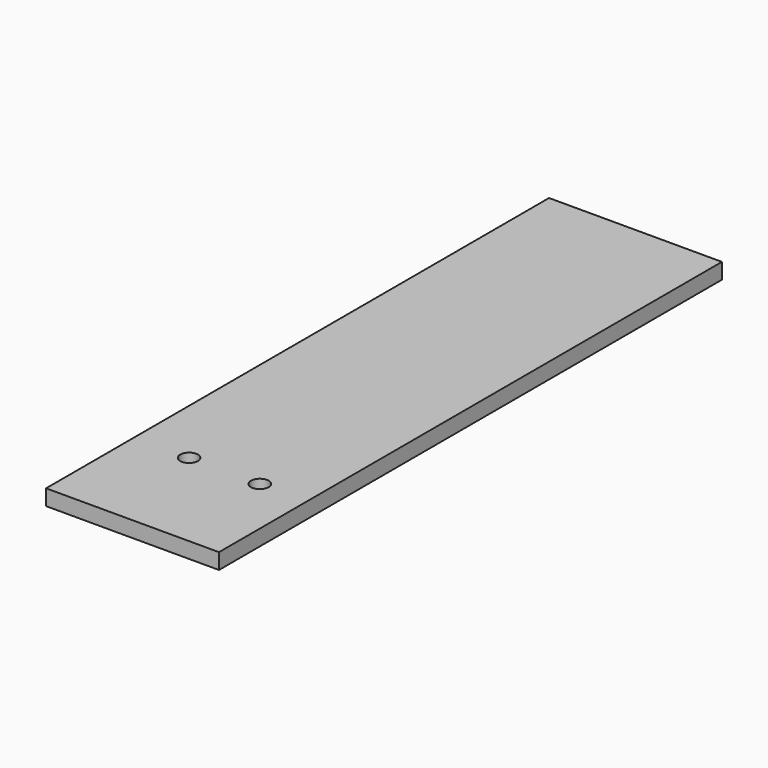
from build123d import *

# Parameters (mm, degrees)
F0_W     = 34.925
F0_H     = 127
F0_R     = 1.785938
F1_DEPTH = 1.5875


with BuildPart() as f1:
    # F0 (on Top) → F1 (new body, symmetric)
    with BuildSketch(Plane.XY):
        with Locations((-17.4625, 0)):
            Rectangle(F0_W, F0_H)
        with Locations((-23.8125, -41.275)):
            Circle(F0_R, mode=Mode.SUBTRACT)
        with Locations((-9.525, -41.275)):
            Circle(F0_R, mode=Mode.SUBTRACT)
    extrude(amount=F1_DEPTH, both=True)


solid = f1.part
